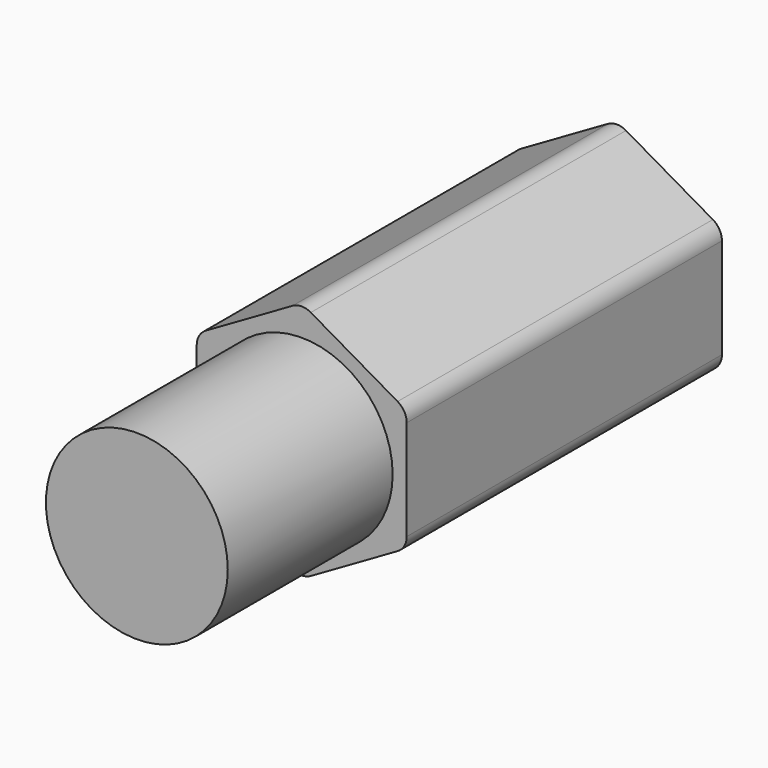
from build123d import *

# Parameters (mm, degrees)
PRISM002_DEPTH    = 6.5
FILLET019_R       = 0.3
CYLINDER014_R     = 1.5
CYLINDER014_DEPTH = 3.4
CYLINDER015_R     = 1
CYLINDER015_DEPTH = 6.5


with BuildPart() as part:
    # Prism002 → Prism002 (join)
    with BuildSketch(Plane(origin=(12.5, 25.5, 6.3), x_dir=(0, 0, -1), z_dir=(0, -1, 0))):
        Polygon((2, 0), (1, 1.732051), (-1, 1.732051), (-2, 0), (-1, -1.732051), (1, -1.732051), align=None)
    extrude(amount=PRISM002_DEPTH)

    # Fillet019
    fillet019_edges = [part.edges().sort_by_distance(p)[0] for p in [
        (12.5, 22.25, 8.3),
        (14.232051, 22.25, 7.3),
        (10.767949, 22.25, 7.3),
        (14.232051, 22.25, 5.3),
        (12.5, 22.25, 4.3),
        (10.767949, 22.25, 5.3),
    ]]
    fillet(fillet019_edges, radius=FILLET019_R)

    # Cylinder014 → Cylinder014 (join)
    with BuildSketch(Plane(origin=(12.5, 19, 6.3), x_dir=(1, 0, 0), z_dir=(0, -1, 0))):
        Circle(CYLINDER014_R)
    extrude(amount=CYLINDER014_DEPTH)

    # Cylinder015 → Cylinder015 (cut)
    with BuildSketch(Plane(origin=(12.5, 26, 6.3), x_dir=(1, 0, 0), z_dir=(0, -1, 0))):
        Circle(CYLINDER015_R)
    extrude(amount=CYLINDER015_DEPTH, mode=Mode.SUBTRACT)


with BuildPart() as part_1:
    # Body008 placement: moved
    add(part.part.moved(Location((0, 0, 15.85))))


solid = part_1.part
